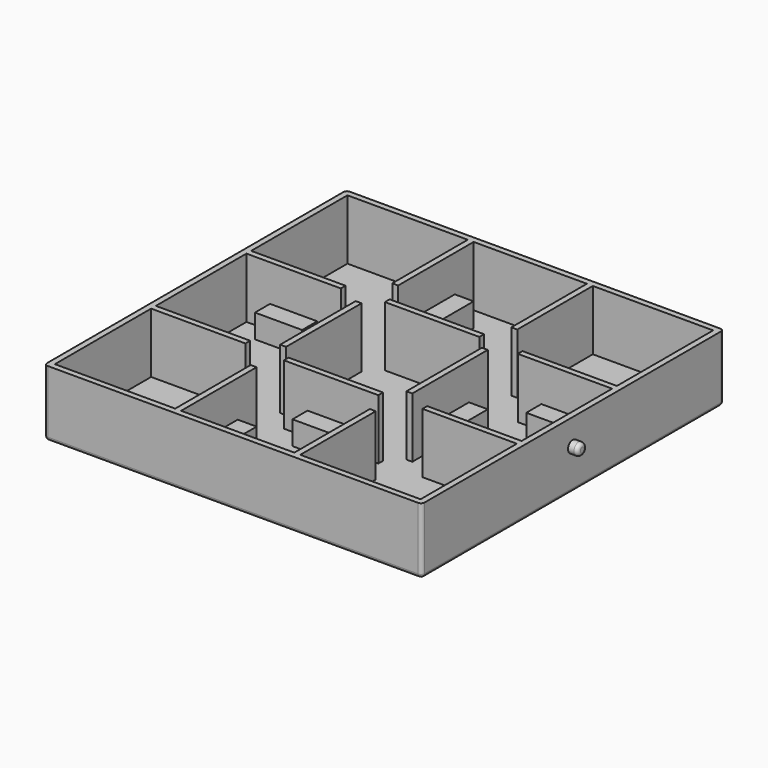
from build123d import *

# Parameters (mm, degrees)
F0_W     = 101.6
F0_H     = 101.6
F1_DEPTH = 1.5875
F2_W     = 101.6
F2_H     = 101.6
F2_W_2   = 98.425
F2_H_2   = 98.425
F3_DEPTH = 16.1925
F4_W     = 25.4
F4_H     = 1.5875
F4_W_2   = 1.5875
F4_H_2   = 25.4
F5_DEPTH = 16.1925
F6_W     = 12.7
F6_H     = 5.08
F6_W_2   = 5.08
F6_H_2   = 12.7
F7_DEPTH = 6.35
F8_R     = 1.5875
F9_DEPTH = 2.54
F11_R    = 0.94615


with BuildPart() as f1:
    # F0 (on Top) → F1 (new body)
    with BuildSketch(Plane.XY):
        Rectangle(F0_W, F0_H)
    extrude(amount=F1_DEPTH)

    # F2 (on face) → F3 (join)
    with BuildSketch(Plane.XY.offset(1.5875)):
        Rectangle(F2_W, F2_H)
        Rectangle(F2_W_2, F2_H_2, mode=Mode.SUBTRACT)
    extrude(amount=F3_DEPTH)

    # F4 (on face) → F5 (join, through all)
    with BuildSketch(Plane.XY.offset(1.5875)):
        with Locations((-36.5125, -16.03375)):
            Rectangle(F4_W, F4_H)
        with Locations((36.5125, -16.03375)):
            Rectangle(F4_W, F4_H)
        with Locations((-36.5125, 16.03375)):
            Rectangle(F4_W, F4_H)
        with Locations((36.5125, 16.03375)):
            Rectangle(F4_W, F4_H)
        with Locations((16.03375, 36.5125)):
            Rectangle(F4_W_2, F4_H_2)
        with Locations((-16.03375, 36.5125)):
            Rectangle(F4_W_2, F4_H_2)
        with Locations((-16.03375, -36.5125)):
            Rectangle(F4_W_2, F4_H_2)
        with Locations((16.03375, -36.5125)):
            Rectangle(F4_W_2, F4_H_2)
        with Locations((0, 16.98625)):
            Rectangle(F4_W, F4_H)
        with Locations((0, -16.98625)):
            Rectangle(F4_W, F4_H)
        with Locations((-16.98625, 0)):
            Rectangle(F4_W_2, F4_H_2)
        with Locations((16.98625, 0)):
            Rectangle(F4_W_2, F4_H_2)
    extrude(amount=F5_DEPTH)

    # F6 (on face) → F7 (join)
    with BuildSketch(Plane.XY.offset(1.5875)):
        with Locations((-36.5125, 12.7)):
            Rectangle(F6_W, F6_H)
        with Locations((-36.5125, -12.7)):
            Rectangle(F6_W, F6_H)
        with Locations((-12.7, 36.5125)):
            Rectangle(F6_W_2, F6_H_2)
        with Locations((12.7, 36.5125)):
            Rectangle(F6_W_2, F6_H_2)
        with Locations((36.5125, 12.7)):
            Rectangle(F6_W, F6_H)
        with Locations((36.5125, -12.7)):
            Rectangle(F6_W, F6_H)
        with Locations((12.7, -36.5125)):
            Rectangle(F6_W_2, F6_H_2)
        with Locations((-12.7, -36.5125)):
            Rectangle(F6_W_2, F6_H_2)
        with Locations((0, -20.32)):
            Rectangle(F6_W, F6_H)
        with Locations((20.32, 0)):
            Rectangle(F6_W_2, F6_H_2)
        with Locations((-20.32, 0)):
            Rectangle(F6_W_2, F6_H_2)
        with Locations((0, 20.32)):
            Rectangle(F6_W, F6_H)
    extrude(amount=F7_DEPTH)

    # F8 (on face) → F9 (join)
    with BuildSketch(Plane.YZ.offset(50.8)):
        with Locations((0, 10.795)):
            Circle(F8_R)
    extrude(amount=F9_DEPTH)

    # F10: F1 across plane


with BuildPart() as f1_1:
    add(f1.part)
    add(f1.part.mirror(Plane.YZ))

    # F11
    f11_edges = [f1_1.edges().sort_by_distance(p)[0] for p in [
        (-53.34, -1.5875, 10.795),
        (-50.8, -50.8, 8.89),
        (0, -50.8, 0),
        (50.8, -50.8, 8.89),
        (53.34, -1.5875, 10.795),
        (50.8, 0, 0),
        (0, 50.8, 0),
        (50.8, 50.8, 8.89),
        (-50.8, 0, 0),
        (-50.8, 50.8, 8.89),
    ]]
    fillet(f11_edges, radius=F11_R)


solid = f1_1.part
